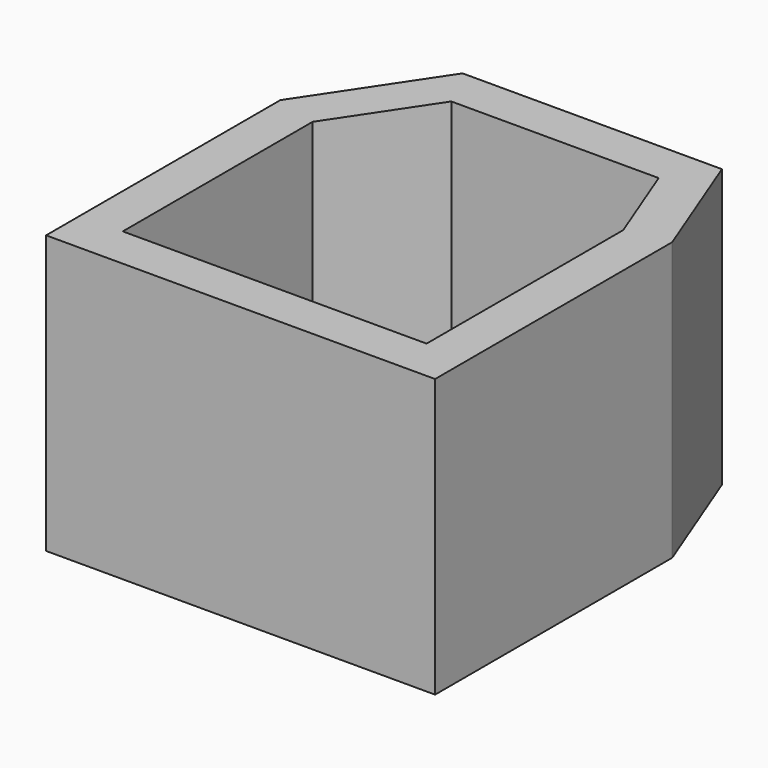
from build123d import *

# Parameters (mm, degrees)
F1_DEPTH = 38.1
F2_T     = -5.842


with BuildPart() as f1:
    # F0 (on Top) → F1 (new body)
    with BuildSketch(Plane.XY):
        Polygon((-33.6075396667, 23.7395333143), (-44.9669826461, 6.7003664479), (-44.9669826461, -33.4457455955), (8.3730173539, -33.4457455955), (8.3730173539, 7.1942544045), (1.9524603333, 23.7395333143), align=None)
        Polygon((-38.6169832995, -27.095746249), (-38.6169832995, 4.7777415712), (-30.2091228848, 17.3895339678), (-2.3947237989, 17.3895339678), (2.0230180074, 6.0053549781), (2.0230180074, -27.095746249), align=None, mode=Mode.SUBTRACT)
        Polygon((-30.2091228848, 17.3895339678), (-38.6169832995, 4.7777415712), (-38.6169832995, -27.095746249), (2.0230180074, -27.095746249), (2.0230180074, 6.0053549781), (-2.3947237989, 17.3895339678), align=None)
    extrude(amount=F1_DEPTH)

    # F2
    f2_openings = [f1.faces().sort_by_distance(p)[0] for p in [
        (-17.982638, -6.040273, 38.1),
    ]]
    offset(amount=F2_T, openings=f2_openings)


solid = f1.part
